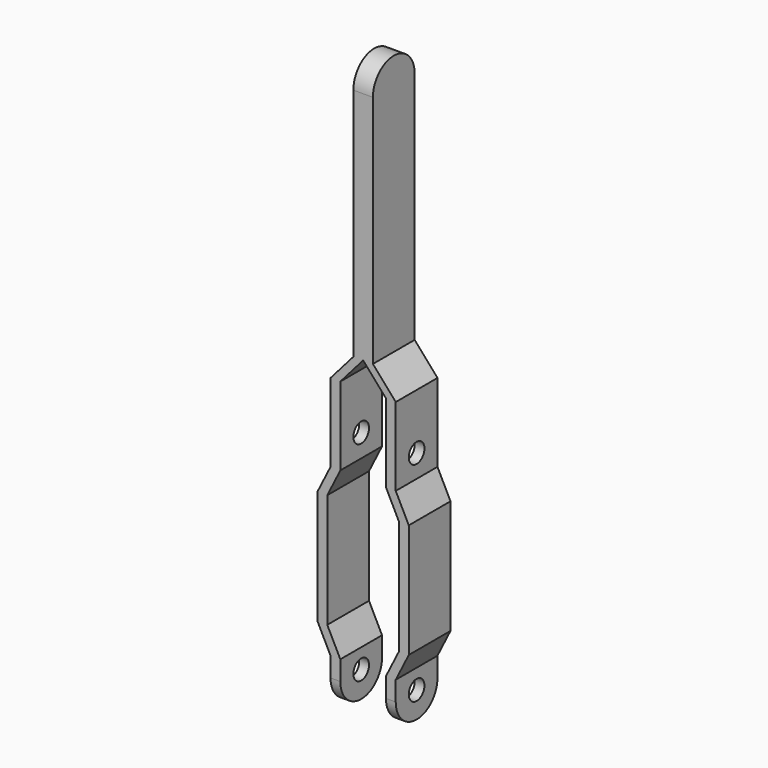
from build123d import *

# Parameters (mm, degrees)
F1_DEPTH  = 16
F2_R      = 3
F3_DEPTH  = 20
F5_DEPTH  = 6
F7_DEPTH  = 3
F8_R      = 3
F9_DEPTH  = 3
F10_DEPTH = 20


with BuildPart() as f1:
    # F0 (on Front) → F1 (new body)
    with BuildSketch(Plane.XZ):
        Polygon((3, 72), (-3, 72), (-3, 0), (0, 0), (3, 0), align=None)
        Polygon((0, 0), (-3, 0), (-10, -8), (-10, -32), (-14, -40), (-14, -75), (-10, -83), (-10, -89), (-7, -89), (-7, -83), (-11, -75), (-11, -40), (-7, -32), (-7, -8), align=None)
        Polygon((10, -8), (3, 0), (0, 0), (7, -8), (7, -32), (11, -40), (11, -75), (7, -83), (7, -89), (10, -89), (10, -83), (14, -75), (14, -40), (10, -32), align=None)
    extrude(amount=F1_DEPTH)

    # F2 (on face) → F3 (cut)
    with BuildSketch(Plane(origin=(-10, 0, 0), x_dir=(0, -1, 0), z_dir=(-1, 0, 0))):
        with Locations((8, -25)):
            Circle(F2_R)
    extrude(amount=-F3_DEPTH, mode=Mode.SUBTRACT)

    # F4 (on face) → F5 (join)
    with BuildSketch(Plane(origin=(-3, 0, 0), x_dir=(0, -1, 0), z_dir=(-1, 0, 0))):
        with BuildLine():
            Line((0, 72), (16, 72))
            ThreePointArc((16, 72), (8, 80), (0, 72))
        make_face()
    extrude(amount=-F5_DEPTH)

    # F6 (on face) → F7 (join)
    with BuildSketch(Plane(origin=(-10, 0, 0), x_dir=(0, -1, 0), z_dir=(-1, 0, 0))):
        with BuildLine():
            Line((16, -89), (0, -89))
            ThreePointArc((0, -89), (8, -97), (16, -89))
        make_face()
    extrude(amount=-F7_DEPTH)

    # F8 (on face) → F9 (join)
    with BuildSketch(Plane.YZ.offset(10)):
        with Locations((-8, -89)):
            Circle(F8_R)
        with BuildLine():
            Line((-11, -89), (-16, -89))
            ThreePointArc((-16, -89), (-8, -97), (0, -89))
            Line((0, -89), (-5, -89))
            ThreePointArc((-5, -89), (-8, -92), (-11, -89))
        make_face()
    extrude(amount=-F9_DEPTH)

    # F8 (on face) → F10 (cut)
    with BuildSketch(Plane.YZ.offset(10)):
        with Locations((-8, -89)):
            Circle(F8_R)
    extrude(amount=-F10_DEPTH, mode=Mode.SUBTRACT)


solid = f1.part
